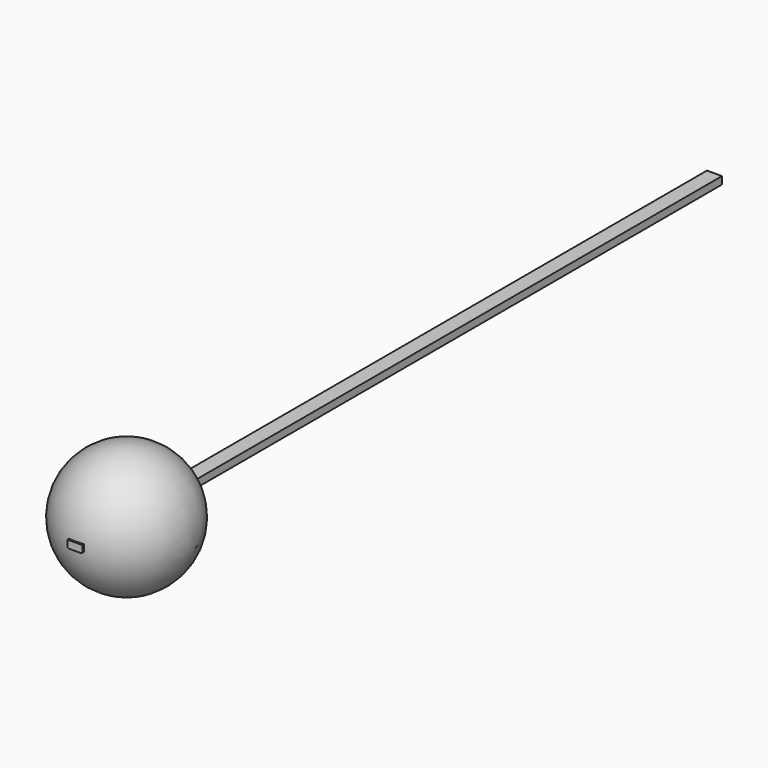
from build123d import *

# Parameters (mm, degrees)
F5_W          = 3288.2778644562
F5_H          = 2785.3727340698
F5_W_2        = 50
F5_H_2        = 25
F7_DEPTH      = 2451.0010001
F7_DEPTH_BACK = 215.0010001
F8_R          = 5


with BuildPart() as f3:
    # F0 (on Front) → F3 (revolve)
    with BuildSketch(Plane.XZ):
        with BuildLine():
            ThreePointArc((0, -210), (210, 0), (0, 210))
            Line((0, 210), (0, -210))
        make_face()
    revolve(axis=Axis((0, 0, 0), (0, 0, -1)))


with BuildPart() as f4:
    # F2 (on offset) → F4 (revolve)
    with BuildSketch(Plane.XZ.offset(-1118)):
        Polygon((-26.3137963981, 97.7449604244), (25.676929157, -95.3792598491), (1313.1682909006, 249.9560756878), (1261.1775653455, 443.0802959613), align=None)
    revolve(axis=Axis((-0.3184336205, 1118, 1.1828502876), (-0.2599536278, 0, 0.9656211014)))

    # F6: cut F3
    add(f3.part, mode=Mode.SUBTRACT)

    # F5 (on Front) → F7 (cut, two sides)
    with BuildSketch(Plane.XZ) as f7_sk:
        Rectangle(F5_W, F5_H)
        Rectangle(F5_W_2, F5_H_2, mode=Mode.SUBTRACT)
    extrude(amount=-F7_DEPTH, mode=Mode.SUBTRACT)
    extrude(f7_sk.sketch, amount=F7_DEPTH_BACK, mode=Mode.SUBTRACT)

    # F8
    f8_edges = [f4.edges().sort_by_distance(p)[0] for p in [
        (-25, -211.42507, -12.5),
        (25, -211.483927, -12.5),
    ]]
    fillet(f8_edges, radius=F8_R)


solid = Compound([f3.part, f4.part])
